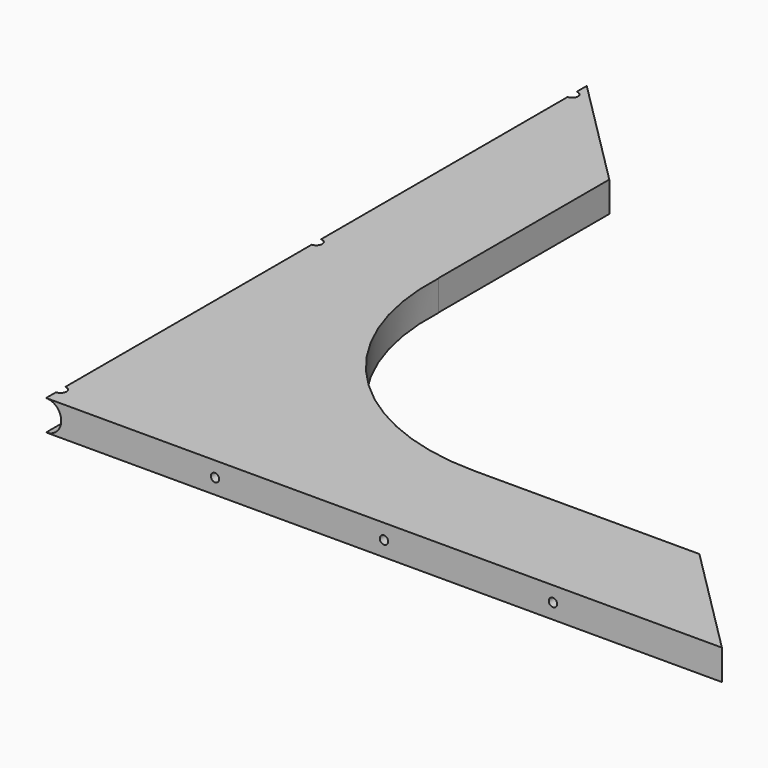
from build123d import *

# Parameters (mm, degrees)
PAD004_DEPTH           = 13.4
CYLINDER005_W          = 6.7
CYLINDER005_H          = 298.45
CYLINDER005_ANGLE      = 180
CYLINDER006_R          = 99.483333
CYLINDER006_DEPTH      = 32
BOX002_W               = 149.225
BOX002_H               = 30
BOX002_DEPTH           = 21
BOX003_W               = 33
BOX003_H               = 149.225
BOX003_DEPTH           = 22
CYLINDER007_R          = 3.7
CYLINDER007_DEPTH      = 105
LINEARPATTERN003_COUNT = 3
LINEARPATTERN003_PITCH = 74.6125
CYLINDER008_R          = 1.85
CYLINDER008_DEPTH      = 100
LINEARPATTERN004_COUNT = 3
LINEARPATTERN004_PITCH = 74.6125
CYLINDER009_R          = 2.55
CYLINDER009_DEPTH      = 10
LINEARPATTERN005_COUNT = 3
LINEARPATTERN005_PITCH = 141.16875


with BuildPart() as part:
    # Sketch004 → Pad004 (new body)
    with BuildSketch(Plane.XY):
        Polygon((0, 0), (298.45, 0), (0, 298.45), align=None)
    extrude(amount=PAD004_DEPTH)

    # Cylinder005 → Cylinder005 (revolve, cut)
    with BuildSketch(Plane(origin=(0, 0, 6.7), x_dir=(0, 0, 1), z_dir=(-1, 0, 0))):
        with Locations((3.35, 149.225)):
            Rectangle(CYLINDER005_W, CYLINDER005_H)
    revolve(axis=Axis((0, 0, 6.7), (0, 1, 0)), revolution_arc=CYLINDER005_ANGLE, mode=Mode.SUBTRACT)

    # Cylinder006 → Cylinder006 (cut)
    with BuildSketch(Plane(origin=(149.225, 149.225, -8), x_dir=(1, 0, 0), z_dir=(0, 0, 1))):
        Circle(CYLINDER006_R)
    extrude(amount=CYLINDER006_DEPTH, mode=Mode.SUBTRACT)

    # Box002 → Box002 (cut)
    with BuildSketch(Plane(origin=(149.225, 79.741667, 17), x_dir=(1, 0, 0), z_dir=(0, 0, -1))):
        with Locations((74.6125, 15)):
            Rectangle(BOX002_W, BOX002_H)
    extrude(amount=BOX002_DEPTH, mode=Mode.SUBTRACT)

    # Box003 → Box003 (cut)
    with BuildSketch(Plane(origin=(49.741667, 303.579167, 17), x_dir=(1, 0, 0), z_dir=(0, 0, -1))):
        with Locations((16.5, 74.6125)):
            Rectangle(BOX003_W, BOX003_H)
    extrude(amount=BOX003_DEPTH, mode=Mode.SUBTRACT)

    # Cylinder007 → Cylinder007 (cut)
    with BuildSketch(Plane(origin=(74.6125, 5, 6.7), x_dir=(-1, 0, 0), z_dir=(0, 1, 0))):
        Circle(CYLINDER007_R)
    cylinder007 = extrude(amount=CYLINDER007_DEPTH, mode=Mode.SUBTRACT)

    # LinearPattern003: Cylinder007 ×3
    with Locations(*[(i * LINEARPATTERN003_PITCH, 0, 0) for i in range(1, LINEARPATTERN003_COUNT)]):
        add(cylinder007, mode=Mode.SUBTRACT)

    # Cylinder008 → Cylinder008 (cut)
    with BuildSketch(Plane(origin=(74.6125, 0, 6.7), x_dir=(-1, 0, 0), z_dir=(0, 1, 0))):
        Circle(CYLINDER008_R)
    cylinder008 = extrude(amount=CYLINDER008_DEPTH, mode=Mode.SUBTRACT)

    # LinearPattern004: Cylinder008 ×3
    with Locations(*[(i * LINEARPATTERN004_PITCH, 0, 0) for i in range(1, LINEARPATTERN004_COUNT)]):
        add(cylinder008, mode=Mode.SUBTRACT)

    # Cylinder009 → Cylinder009 (cut)
    with BuildSketch(Plane(origin=(0, 8.05625, 5), x_dir=(1, 0, 0), z_dir=(0, 0, 1))):
        Circle(CYLINDER009_R)
    cylinder009 = extrude(amount=CYLINDER009_DEPTH, mode=Mode.SUBTRACT)

    # LinearPattern005: Cylinder009 ×3
    with Locations(*[(0, i * LINEARPATTERN005_PITCH, 0) for i in range(1, LINEARPATTERN005_COUNT)]):
        add(cylinder009, mode=Mode.SUBTRACT)


solid = part.part
